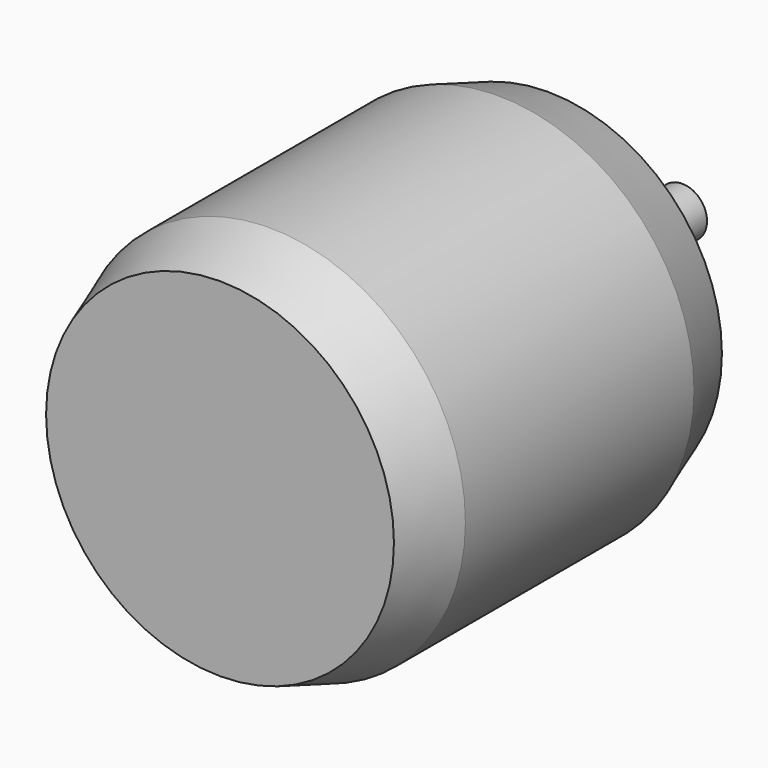
from build123d import *

# Parameters (mm, degrees)
F0_R     = 31.5
F0_R_2   = 2
F0_R_3   = 4
F1_DEPTH = 66
F2_DEPTH = 27
F3_DEPTH = 10
F4_SIZE2 = 3.5
F4_SIZE  = 10
F5_SIZE2 = 10
F5_SIZE  = 3.5
F6_R     = 7.75
F6_R_2   = 4
F7_DEPTH = 2


with BuildPart() as f1:
    # F0 (on Front) → F1 (new body)
    with BuildSketch(Plane.XZ):
        Circle(F0_R)
        with Locations((-15.5563491861, -15.5563491861)):
            Circle(F0_R_2, mode=Mode.SUBTRACT)
        with Locations((15.5563491861, -15.5563491861)):
            Circle(F0_R_2, mode=Mode.SUBTRACT)
        with Locations((-15.5563491861, 15.5563491861)):
            Circle(F0_R_2, mode=Mode.SUBTRACT)
        Circle(F0_R_3, mode=Mode.SUBTRACT)
        with Locations((15.5563491861, 15.5563491861)):
            Circle(F0_R_2, mode=Mode.SUBTRACT)
        Circle(F0_R_3)
        with Locations((15.5563491861, 15.5563491861)):
            Circle(F0_R_2)
        with Locations((-15.5563491861, 15.5563491861)):
            Circle(F0_R_2)
        with Locations((-15.5563491861, -15.5563491861)):
            Circle(F0_R_2)
        with Locations((15.5563491861, -15.5563491861)):
            Circle(F0_R_2)
    extrude(amount=F1_DEPTH)

    # F0 (on Front) → F2 (join)
    with BuildSketch(Plane.XZ):
        Circle(F0_R_3)
    extrude(amount=-F2_DEPTH)

    # F0 (on Front) → F3 (cut)
    with BuildSketch(Plane.XZ):
        with Locations((15.5563491861, 15.5563491861)):
            Circle(F0_R_2)
        with Locations((-15.5563491861, 15.5563491861)):
            Circle(F0_R_2)
        with Locations((15.5563491861, -15.5563491861)):
            Circle(F0_R_2)
        with Locations((-15.5563491861, -15.5563491861)):
            Circle(F0_R_2)
    extrude(amount=F3_DEPTH, mode=Mode.SUBTRACT)

    # F4
    f4_edges = [f1.edges().sort_by_distance(p)[0] for p in [
        (-31.5, 0, 0),
    ]]
    f4_side = f1.faces().sort_by_distance((-31.5, -33, 0))[0]
    chamfer(f4_edges, length=F4_SIZE, length2=F4_SIZE2, reference=f4_side)

    # F5
    f5_edges = [f1.edges().sort_by_distance(p)[0] for p in [
        (-31.5, -66, 0),
    ]]
    f5_side = f1.faces().sort_by_distance((0, -66, 0))[0]
    chamfer(f5_edges, length=F5_SIZE, length2=F5_SIZE2, reference=f5_side)

    # F6 (on face) → F7 (join)
    with BuildSketch(Plane(origin=(0, 0, 0), x_dir=(-1, 0, 0), z_dir=(0, 1, 0))):
        Circle(F6_R)
        Circle(F6_R_2, mode=Mode.SUBTRACT)
    extrude(amount=F7_DEPTH)


solid = f1.part
